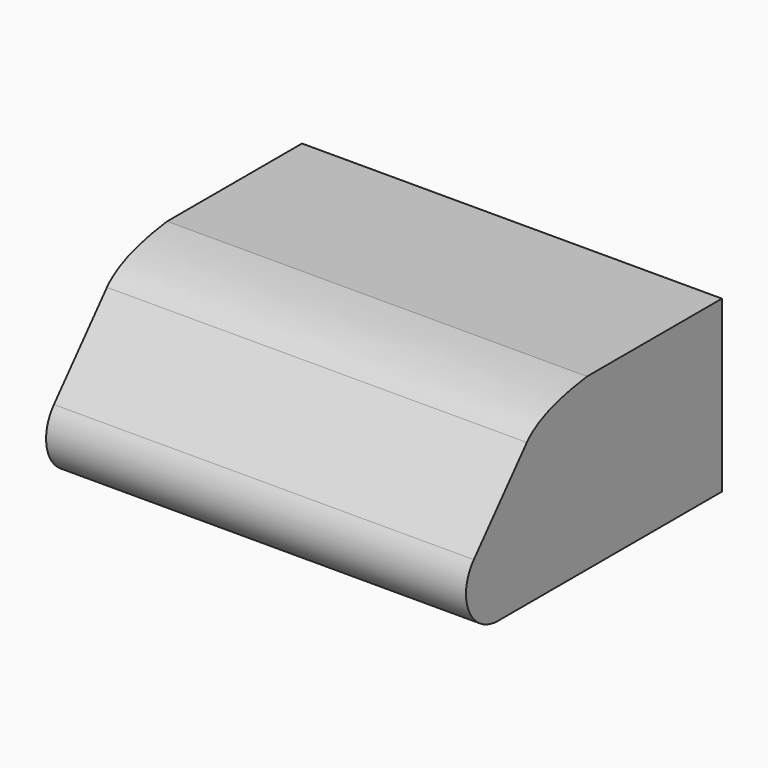
from build123d import *

# Parameters (mm, degrees)
F1_DEPTH = 2100


with BuildPart() as f1:
    # F0 (on Right) → F1 (new body)
    with BuildSketch(Plane.YZ):
        with BuildLine():
            Line((-1400, 0), (0, 0))
            Line((0, 0), (0, 750))
            Line((0, 750), (0, 850))
            Line((0, 850), (-843.248071, 850))
            add(Edge.make_bspline(
                [(-843.248071, 850), (-1021.091655, 827.844158), (-1155.212, 784.873672), (-1219.594104, 712.412415)],
                knots=[1609.848751, 1609.848751, 1609.848751, 1609.848751, 2219.912344, 2219.912344, 2219.912344, 2219.912344], degree=3))
            Line((-1219.594104, 712.412415), (-1550.946783, 331.206207))
            ThreePointArc((-1550.946783, 331.206207), (-1581.990716, 117.057976), (-1400, 0))
        make_face()
    extrude(amount=F1_DEPTH)


solid = f1.part
